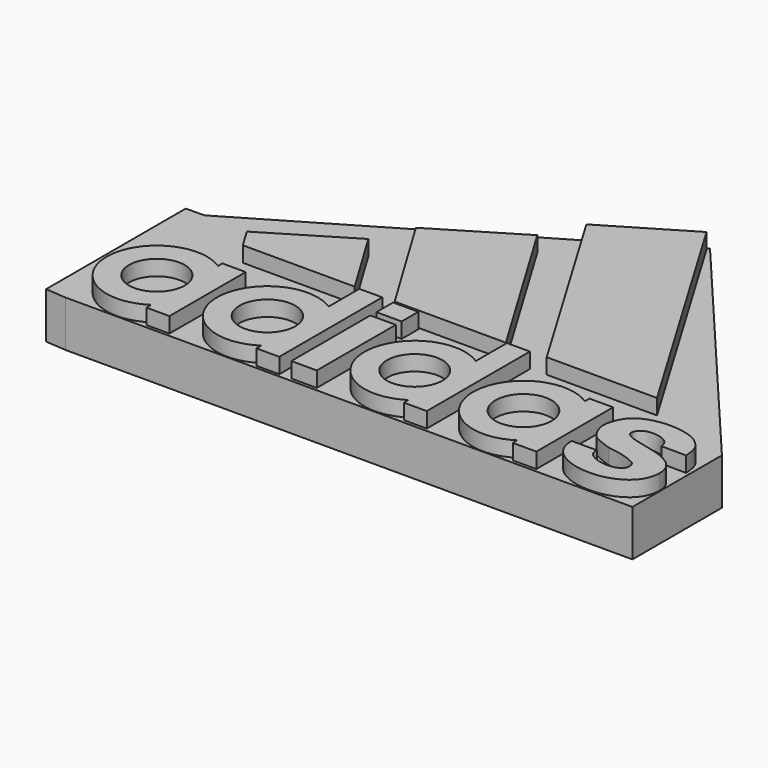
from build123d import *

# Parameters (mm, degrees)
F2_DEPTH = 25.4
F0_W     = 10.4905329645
F0_H     = 40.7157354057
F0_W_2   = 10.402248851
F0_H_2   = 8.6209364235
F3_DEPTH = 19.05


with BuildPart() as f2:
    # F0 (on Top) → F2 (new body)
    with BuildSketch(Plane.XY):
        Polygon((22.2554257234, -24.0931008011), (-16.652032733, 40.7543629408), (-50.4259872688, 20.3735283716), (-23.5926766461, -24.0931008011), align=None)
    extrude(amount=F2_DEPTH)



with BuildPart() as f2b:
    # F0 (on Top) → F2, piece 2 (new body)
    with BuildSketch(Plane.XY):
        Polygon((24.5092988263, 76.5121982899), (-9.0313911077, 56.5090138466), (38.8637818396, -23.8000564277), (84.3340829015, -23.8000564277), align=None)
    extrude(amount=F2_DEPTH)


with BuildPart() as f2c:
    # F0 (on Top) → F2, piece 3 (new body)
    with BuildSketch(Plane.XY):
        Polygon((-57.4773997068, 4.6953349374), (-91.2614555412, -15.702946983), (-86.2606987357, -23.9853036927), (-40.1604808827, -23.9853036927), align=None)
    extrude(amount=F2_DEPTH)


with BuildPart() as f2d:
    # F0 (on Top) → F2, piece 4 (new body)
    with BuildSketch(Plane.XY):
        with BuildLine():
            ThreePointArc((-38.0145609379, -59.5184295672), (-60.8345789267, -57.5082264841), (-38.0145609379, -55.4980234009))
            Line((-38.0145609379, -55.4980234009), (-38.0145609379, -40.0948306332))
            ThreePointArc((-38.0145609379, -40.0948306332), (-70.1062511364, -57.5082264841), (-38.0145609379, -74.9216223349))
            Line((-38.0145609379, -74.9216223349), (-38.0145609379, -59.5184295672))
        make_face()
        with BuildLine():
            ThreePointArc((-38.0145609379, -55.4980234009), (-37.8818382068, -56.4992328085), (-37.8374832319, -57.5082264841))
            ThreePointArc((-37.8374832319, -57.5082264841), (-37.8818382068, -58.5172201596), (-38.0145609379, -59.5184295672))
            Line((-38.0145609379, -59.5184295672), (-38.0145609379, -74.9216223349))
            ThreePointArc((-38.0145609379, -74.9216223349), (-31.0801899945, -67.4140988589), (-28.5658110222, -57.5082264841))
            ThreePointArc((-28.5658110222, -57.5082264841), (-31.0801899945, -47.6023541092), (-38.0145609379, -40.0948306332))
            Line((-38.0145609379, -40.0948306332), (-38.0145609379, -55.4980234009))
        make_face()
        with BuildLine():
            Line((-38.0145609379, -24.270888418), (-38.0145609379, -40.0948306332))
            ThreePointArc((-38.0145609379, -40.0948306332), (-31.0801899945, -47.6023541092), (-28.5658110222, -57.5082264841))
            ThreePointArc((-28.5658110222, -57.5082264841), (-31.0801899945, -67.4140988589), (-38.0145609379, -74.9216223349))
            Line((-38.0145609379, -74.9216223349), (-38.0145609379, -77.3467645049))
            Line((-38.0145609379, -77.3467645049), (-28.5626966506, -77.3467645049))
            Line((-28.5626966506, -77.3467645049), (-28.5626966506, -24.270888418))
            Line((-28.5626966506, -24.270888418), (-38.0145609379, -24.270888418))
        make_face()
    extrude(amount=F2_DEPTH)


with BuildPart() as f2e:
    # F0 (on Top) → F2, piece 5 (new body)
    with BuildSketch(Plane.XY):
        with BuildLine():
            Line((-83.4473530362, -56.2987201221), (-83.4876790069, -40.2497607679))
            ThreePointArc((-83.4876790069, -40.2497607679), (-115.5651626969, -57.6272489325), (-83.4007563146, -74.8433174983))
            Line((-83.4007563146, -74.8433174983), (-83.4410822853, -58.7943581441))
            ThreePointArc((-83.4410822853, -58.7943581441), (-106.3191045036, -57.6040165057), (-83.4473530362, -56.2987201221))
        make_face()
        with BuildLine():
            Line((-73.9050880075, -77.2753804922), (-73.9050880075, -37.9637479782))
            Line((-73.9050880075, -37.9637479782), (-83.4889635444, -37.9637479782))
            Line((-83.4889635444, -37.9637479782), (-83.4889635444, -39.7385396063))
            Line((-83.4889635444, -39.7385396063), (-83.4876790069, -40.2497607679))
            ThreePointArc((-83.4876790069, -40.2497607679), (-76.6189426272, -47.7296825381), (-74.1300258705, -57.5751923025))
            ThreePointArc((-74.1300258705, -57.5751923025), (-76.5942615898, -67.3748681995), (-83.4007563146, -74.8433174983))
            Line((-83.4007563146, -74.8433174983), (-83.4002196789, -75.0568881631))
            Line((-83.4002196789, -75.0568881631), (-83.4002196789, -77.2753804922))
            Line((-83.4002196789, -77.2753804922), (-73.9050880075, -77.2753804922))
        make_face()
        with BuildLine():
            ThreePointArc((-74.1300258705, -57.5751923025), (-76.6189426272, -47.7296825381), (-83.4876790069, -40.2497607679))
            Line((-83.4876790069, -40.2497607679), (-83.4473530362, -56.2987201221))
            ThreePointArc((-83.4473530362, -56.2987201221), (-83.3939370445, -56.9359630137), (-83.3761132516, -57.5751923025))
            ThreePointArc((-83.3761132516, -57.5751923025), (-83.3923670249, -58.1856401554), (-83.4410822853, -58.7943581441))
            Line((-83.4410822853, -58.7943581441), (-83.4007563146, -74.8433174983))
            ThreePointArc((-83.4007563146, -74.8433174983), (-76.5942615898, -67.3748681995), (-74.1300258705, -57.5751923025))
        make_face()
    extrude(amount=F2_DEPTH)


with BuildPart() as f2f:
    # F0 (on Top) → F2, piece 6 (new body)
    with BuildSketch(Plane.XY):
        with Locations((-18.4356942773, -56.885028258)):
            Rectangle(F0_W, F0_H)
    extrude(amount=F2_DEPTH)


with BuildPart() as f2g:
    # F0 (on Top) → F2, piece 7 (new body)
    with BuildSketch(Plane.XY):
        with Locations((-18.3915522206, -29.2045604438)):
            Rectangle(F0_W_2, F0_H_2)
    extrude(amount=F2_DEPTH)


with BuildPart() as f2h:
    # F0 (on Top) → F2, piece 8 (new body)
    with BuildSketch(Plane.XY):
        with BuildLine():
            ThreePointArc((22.6990077645, -40.1396291353), (-9.3025105045, -57.5291216373), (22.6990077645, -74.9186141394))
            Line((22.6990077645, -74.9186141394), (22.6990077645, -59.3638670222))
            ThreePointArc((22.6990077645, -59.3638670222), (-0.001424212, -57.5291216373), (22.6990077645, -55.6943762525))
            Line((22.6990077645, -55.6943762525), (22.6990077645, -40.1396291353))
        make_face()
        with BuildLine():
            Line((22.6990077645, -59.3638670222), (22.6990077645, -74.9186141394))
            ThreePointArc((22.6990077645, -74.9186141394), (29.6334540726, -67.424640801), (32.1483859764, -57.5291216373))
            ThreePointArc((32.1483859764, -57.5291216373), (29.6334540726, -47.6336024737), (22.6990077645, -40.1396291353))
            Line((22.6990077645, -40.1396291353), (22.6990077645, -55.6943762525))
            ThreePointArc((22.6990077645, -55.6943762525), (22.8101663555, -56.6087574267), (22.8472996838, -57.5291216373))
            ThreePointArc((22.8472996838, -57.5291216373), (22.8101663555, -58.4494858479), (22.6990077645, -59.3638670222))
        make_face()
        with BuildLine():
            Line((22.6990077645, -77.2428959608), (32.16053918, -77.2428959608))
            Line((32.16053918, -77.2428959608), (32.16053918, -24.0931008011))
            Line((32.16053918, -24.0931008011), (22.6990077645, -24.0931008011))
            Line((22.6990077645, -24.0931008011), (22.6990077645, -40.1396291353))
            ThreePointArc((22.6990077645, -40.1396291353), (29.6334540726, -47.6336024737), (32.1483859764, -57.5291216373))
            ThreePointArc((32.1483859764, -57.5291216373), (29.6334540726, -67.424640801), (22.6990077645, -74.9186141394))
            Line((22.6990077645, -74.9186141394), (22.6990077645, -77.2428959608))
        make_face()
    extrude(amount=F2_DEPTH)


with BuildPart() as f2i:
    # F0 (on Top) → F2, piece 9 (new body)
    with BuildSketch(Plane.XY):
        with BuildLine():
            ThreePointArc((67.633010447, -59.7282754063), (44.7233421079, -57.5291216373), (67.633010447, -55.3299678684))
            Line((67.633010447, -55.3299678684), (67.633010447, -40.0889898153))
            ThreePointArc((67.633010447, -40.0889898153), (35.4759300432, -57.5291216373), (67.633010447, -74.9692534594))
            Line((67.633010447, -74.9692534594), (67.633010447, -59.7282754063))
        make_face()
        with BuildLine():
            ThreePointArc((67.633010447, -55.3299678684), (67.7912159446, -56.424490323), (67.8441124686, -57.5291216373))
            ThreePointArc((67.8441124686, -57.5291216373), (67.7912159446, -58.6337529517), (67.633010447, -59.7282754063))
            Line((67.633010447, -59.7282754063), (67.633010447, -74.9692534594))
            ThreePointArc((67.633010447, -74.9692534594), (74.5746814601, -67.4490723264), (77.0915245333, -57.5291216373))
            ThreePointArc((77.0915245333, -57.5291216373), (74.5746814601, -47.6091709483), (67.633010447, -40.0889898153))
            Line((67.633010447, -40.0889898153), (67.633010447, -55.3299678684))
        make_face()
        with BuildLine():
            Line((67.633010447, -37.7129130065), (67.633010447, -40.0889898153))
            ThreePointArc((67.633010447, -40.0889898153), (74.5746814601, -47.6091709483), (77.0915245333, -57.5291216373))
            ThreePointArc((77.0915245333, -57.5291216373), (74.5746814601, -67.4490723264), (67.633010447, -74.9692534594))
            Line((67.633010447, -74.9692534594), (67.633010447, -77.255256474))
            Line((67.633010447, -77.255256474), (77.3609653115, -77.255256474))
            Line((77.3609653115, -77.255256474), (77.3609653115, -37.7129130065))
            Line((77.3609653115, -37.7129130065), (67.633010447, -37.7129130065))
        make_face()
    extrude(amount=F2_DEPTH)


with BuildPart() as f2j:
    # F0 (on Top) → F2, piece 10 (new body)
    with BuildSketch(Plane.XY):
        with BuildLine():
            Line((92.1388227658, -64.3491685643), (81.6138380586, -64.3754032696))
            add(Edge.make_bspline(
                [(81.6138380586, -64.3754032696), (81.0237198295, -82.2733262413), (118.0619786537, -83.0076567867), (117.7329620093, -63.9424404479)],
                knots=[0, 0, 0, 0, 36.1217188374, 36.1217188374, 36.1217188374, 36.1217188374], degree=3))
            add(Edge.make_bspline(
                [(117.7329620093, -63.9424404479), (117.6238954067, -50.0530079007), (91.6221942414, -53.9885690817), (93.0633749474, -47.2330456981)],
                knots=[0, 0, 0, 0, 29.7958453263, 29.7958453263, 29.7958453263, 29.7958453263], degree=3))
            add(Edge.make_bspline(
                [(93.0633749474, -47.2330456981), (94.1907316446, -41.6912063956), (106.7430001885, -43.1983026707), (106.3794791698, -49.1591873572)],
                knots=[0, 0, 0, 0, 13.4546888985, 13.4546888985, 13.4546888985, 13.4546888985], degree=3))
            Line((106.3794791698, -49.1591873572), (116.6163086891, -49.230735749))
            add(Edge.make_bspline(
                [(93.9930528402, -60.6037378311), (91.2853042099, -59.6798382556), (86.8375506759, -58.1622389597), (84.3619449133, -55.3085722813), (81.9709819676, -49.7089269475), (83.5870239407, -44.7663683152), (85.2711953993, -41.1284321456), (89.8359164854, -37.4868226535), (97.5770355107, -35.8068333813), (104.2418378638, -36.356464185), (110.2360538012, -37.796673408), (114.319041147, -41.1573940581), (116.1442034501, -44.118742648), (116.6500894037, -48.1202484169), (116.7054561822, -49.2691805394), (116.7222346545, -49.2496892372), (116.6163086891, -49.230735749)],
                knots=[0, 0, 0, 0, 0.0951163731, 0.1611064958, 0.2439789477, 0.3215663515, 0.3898852151, 0.4714456316, 0.5684758473, 0.6586638422, 0.744134516, 0.8218312884, 0.887044629, 0.9567857053, 0.9891944674, 1, 1, 1, 1], degree=3))
            add(Edge.make_bspline(
                [(106.5832078457, -64.3491685643), (104.6653613448, -62.8154724836), (99.3646010756, -61.0617473722), (93.9930528402, -60.6037378311)],
                knots=[0, 0, 0, 0, 13.1354579075, 13.1354579075, 13.1354579075, 13.1354579075], degree=3))
            add(Edge.make_bspline(
                [(92.1388227658, -64.3491685643), (90.1475548744, -71.2079927325), (110.8899489045, -73.5386013985), (106.5832078457, -64.3491685643)],
                knots=[0, 0, 0, 0, 14.4443850799, 14.4443850799, 14.4443850799, 14.4443850799], degree=3))
        make_face()
    extrude(amount=F2_DEPTH)


with BuildPart() as f2_1:
    add(f2.part)

    add(f2b.part)  # F3 merges F2b

    add(f2c.part)  # F3 merges F2c

    add(f2d.part)  # F3 merges F2d

    add(f2e.part)  # F3 merges F2e

    add(f2f.part)  # F3 merges F2f

    add(f2g.part)  # F3 merges F2g

    add(f2h.part)  # F3 merges F2h

    add(f2i.part)  # F3 merges F2i

    add(f2j.part)  # F3 merges F2j
    # F1 (on Top) → F3 (join)
    with BuildSketch(Plane.XY):
        Polygon((16.3488946855, 70.2441930771), (118.0084273219, -70.142775774), (118.0084273219, -32.4344821274), (25.0436160713, 77.633112669), (-116.5553331375, -5.8484845795), (-115.7860457897, -59.5445111394), align=None)
        Polygon((-115.7860457897, -78.5507112741), (-115.7860457897, -59.5445111394), (-116.5553331375, -5.8484845795), (-124.2581907012, -5.9588411784), (-124.2581907012, -77.9071077704), align=None)
        Polygon((118.0084273219, -78.5507112741), (118.0084273219, -70.142775774), (-115.7860457897, -59.5445111394), (-115.7860457897, -78.5507112741), align=None)
        Polygon((-115.7860457897, -59.5445111394), (118.0084273219, -70.142775774), (16.3488946855, 70.2441930771), align=None)
    extrude(amount=F3_DEPTH)


solid = f2_1.part
